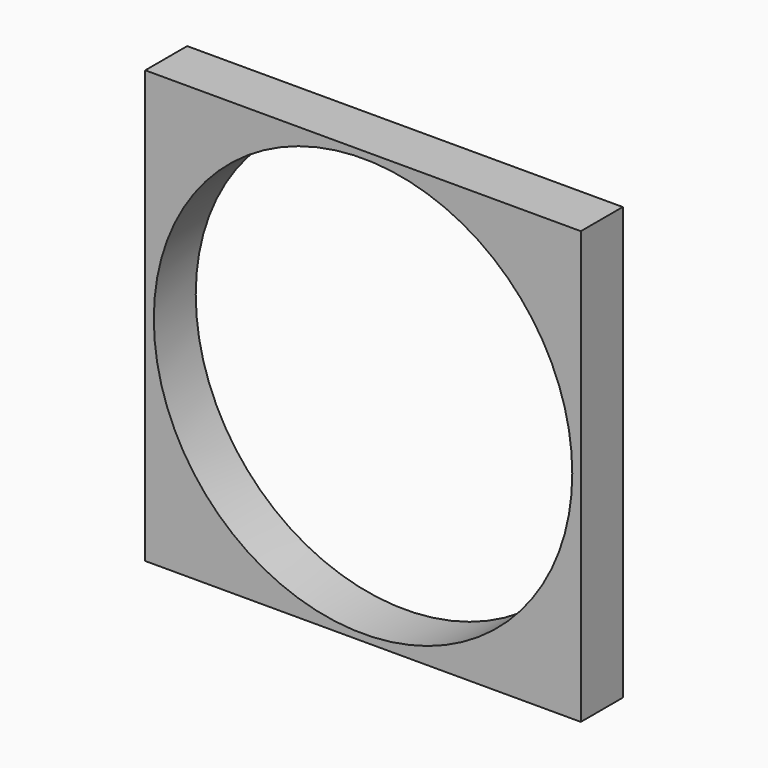
from build123d import *

# Parameters (mm, degrees)
F0_W     = 211.11551
F0_H     = 209.385068
F0_R     = 101.410764
F1_DEPTH = 25.4
F2_DEPTH = 25.4


with BuildPart() as f1:
    # F0 (on Front) → F1 (new body)
    with BuildSketch(Plane.XZ):
        Rectangle(F0_W, F0_H)
        Circle(F0_R, mode=Mode.SUBTRACT)
    extrude(amount=F1_DEPTH)

    # F0 (on Front) → F2 (join)
    with BuildSketch(Plane.XZ):
        Rectangle(F0_W, F0_H)
        Circle(F0_R, mode=Mode.SUBTRACT)
    extrude(amount=F2_DEPTH)


solid = f1.part
